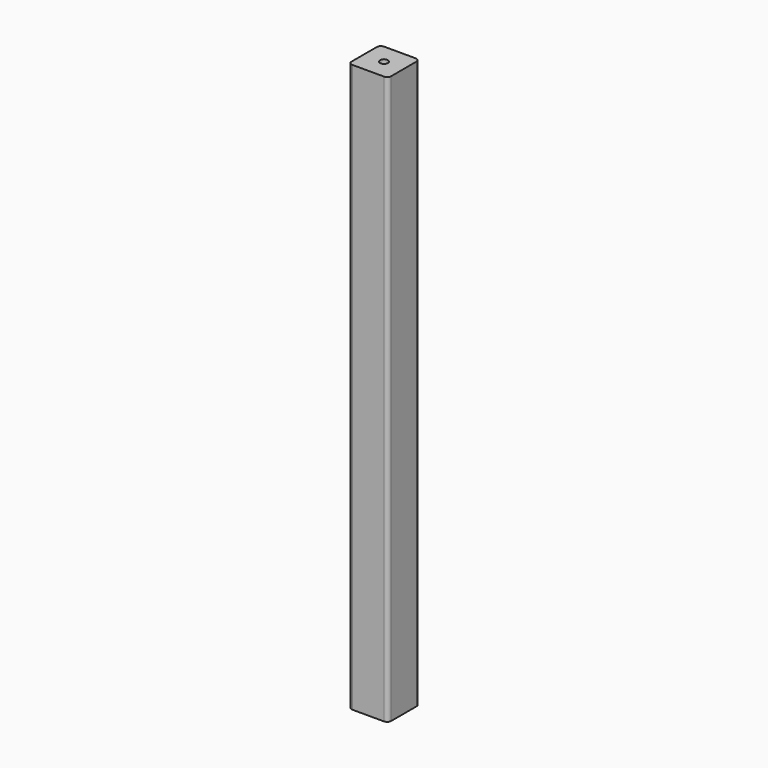
from build123d import *

# Parameters (mm, degrees)
F0_W     = 40
F0_H     = 40
F1_DEPTH = 573.5
F3_D     = 8
F4_R     = 4


with BuildPart() as f1:
    # F0 (on Top) → F1 (new body)
    with BuildSketch(Plane.XY):
        Rectangle(F0_W, F0_H)
    extrude(amount=F1_DEPTH)

    # F3 (through all)
    with Locations(Plane.XY.offset(573.5)):
        with Locations((0, 0)):
            Hole(F3_D / 2)

    # F4
    f4_edges = [f1.edges().sort_by_distance(p)[0] for p in [
        (-20, -20, 286.75),
        (20, -20, 286.75),
        (20, 20, 286.75),
        (-20, 20, 286.75),
    ]]
    fillet(f4_edges, radius=F4_R)


solid = f1.part
